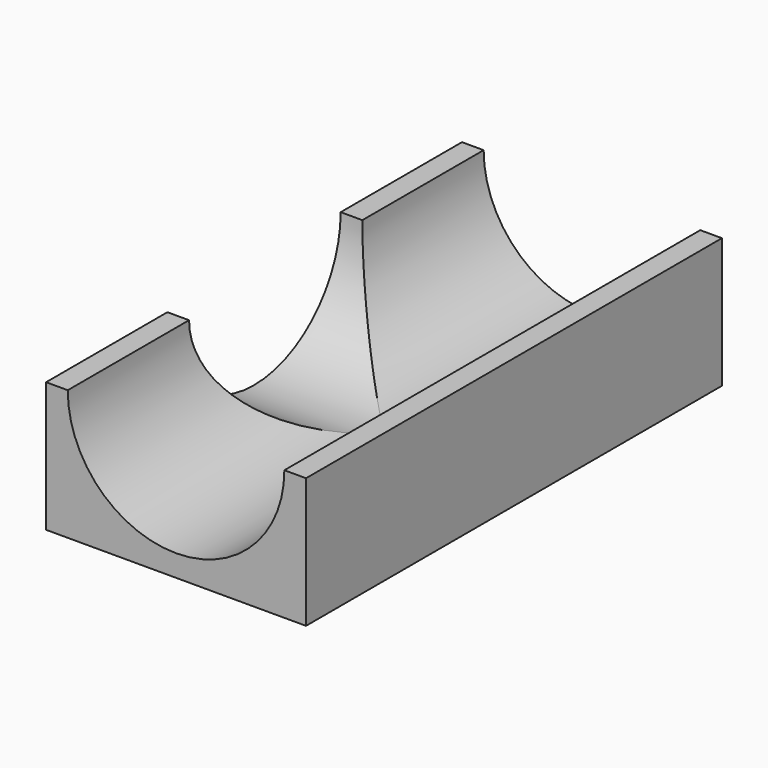
from build123d import *

# Parameters (mm, degrees)
F1_DEPTH = 30
F2_R     = 12.5
F3_DEPTH = 15


with BuildPart() as f1:
    # F0 (on Front) → F1 (new body, symmetric)
    with BuildSketch(Plane.XZ):
        with BuildLine():
            Line((0, 15), (0, 0))
            Line((0, 0), (30, 0))
            Line((30, 0), (30, 15))
            Line((30, 15), (27.5, 15))
            ThreePointArc((27.5, 15), (15, 2.5), (2.5, 15))
            Line((2.5, 15), (0, 15))
        make_face()
    extrude(amount=F1_DEPTH, both=True)

    # F2 (on Right) → F3 (cut)
    with BuildSketch(Plane.YZ):
        with Locations((0, 15)):
            Circle(F2_R)
    extrude(amount=F3_DEPTH, mode=Mode.SUBTRACT)


solid = f1.part
